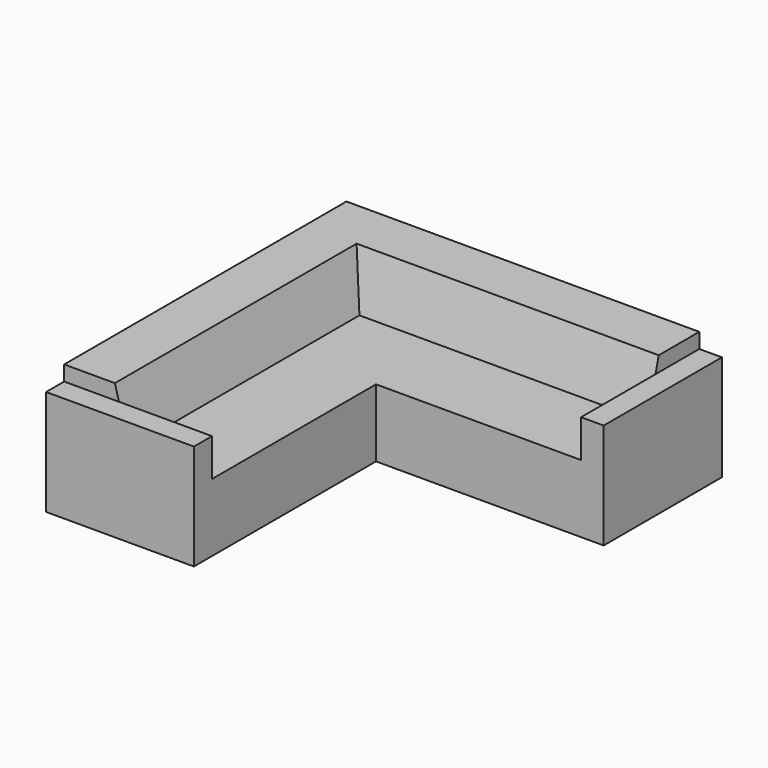
from build123d import *

# Parameters (mm, degrees)
F1_DEPTH = 450
F2_W     = 980
F2_H     = 150
F2_W_2   = 150
F2_H_2   = 980
F3_DEPTH = 250
F5_DEPTH = 2339.2


with BuildPart() as f1:
    # F0 (on Top) → F1 (new body)
    with BuildSketch(Plane.XY):
        Polygon((0, 2489.2), (0, 0), (980, 0), (980, 1509.2), (2489.2, 1509.2), (2489.2, 2489.2), align=None)
    extrude(amount=F1_DEPTH)

    # F2 (on face) → F3 (join)
    with BuildSketch(Plane.XY.offset(450)):
        with Locations((490, 75)):
            Rectangle(F2_W, F2_H)
        with Locations((2414.2, 1999.2)):
            Rectangle(F2_W_2, F2_H_2)
    extrude(amount=F3_DEPTH)

    # F4 (on face) → F5 (join, through all)
    with BuildSketch(Plane(origin=(0, 150, 0), x_dir=(-1, 0, 0), z_dir=(0, 1, 0))):
        Polygon((-430, 450), (0, 450), (0, 800), (-336.2177826491, 800), align=None)
    extrude(amount=F5_DEPTH)

    # F6 (on face) → F7 (join, up to the next surface of F1)
    with BuildSketch(Plane(origin=(2339.2, 0, 0), x_dir=(0, -1, 0), z_dir=(-1, 0, 0))):
        Polygon((-2489.2, 800), (-2489.2, 450), (-2059.2, 450), (-2152.9822173509, 800), align=None)
    extrude(until=Until.NEXT)


solid = f1.part
